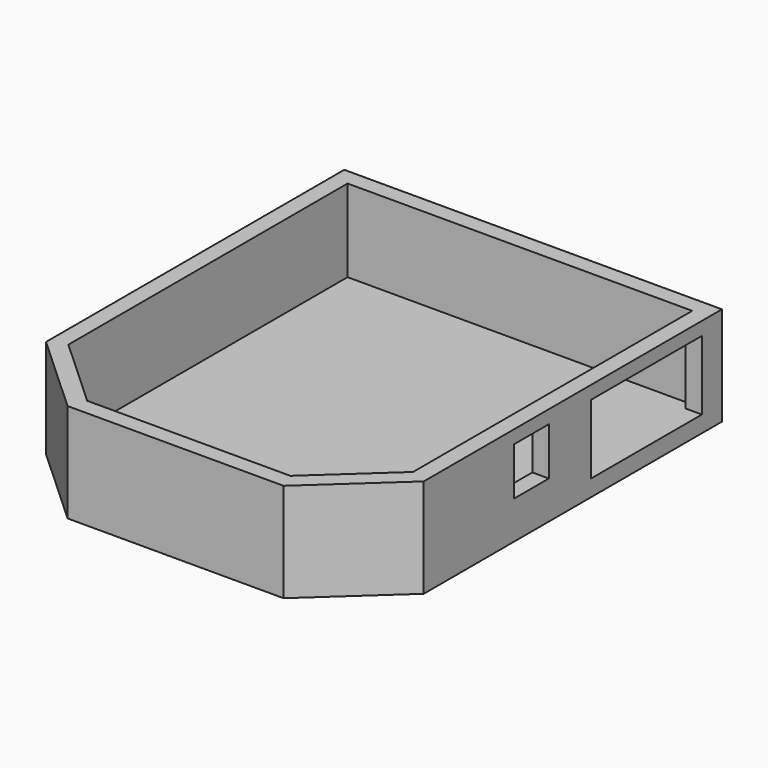
from build123d import *

# Parameters (mm, degrees)
F1_DEPTH = 5
F3_DEPTH = 25
F5_W     = 13.2
F5_H     = 14.5
F5_W_2   = 42
F5_H_2   = 21
F6_DEPTH = 5


with BuildPart() as f1:
    # F0 (on Top) → F1 (new body)
    with BuildSketch(Plane.XY):
        Polygon((68.193161, 51.273486), (-46.306839, 51.273486), (-46.306839, -61.726514), (-21.806839, -84.226514), (43.693161, -84.226514), (68.193161, -61.726514), align=None)
    extrude(amount=F1_DEPTH)

    # F2 (on face) → F3 (join)
    with BuildSketch(Plane.XY.offset(5)):
        Polygon((68.193161, -61.726514), (68.193161, 51.273486), (-46.306839, 51.273486), (-46.306839, -61.726514), (-21.806839, -84.226514), (43.693161, -84.226514), align=None)
        Polygon((-19.859262, -79.226514), (-41.306839, -59.52976), (-41.306839, 46.273486), (63.193161, 46.273486), (63.193161, -59.52976), (41.745585, -79.226514), align=None, mode=Mode.SUBTRACT)
    extrude(amount=F3_DEPTH)

    # F5 (on face) → F6 (cut, through all)
    with BuildSketch(Plane.YZ.offset(68.193161)):
        with Locations((-20.926514, 18.75)):
            Rectangle(F5_W, F5_H)
        with Locations((22.673486, 15.5)):
            Rectangle(F5_W_2, F5_H_2)
    extrude(amount=-F6_DEPTH, mode=Mode.SUBTRACT)


solid = f1.part
